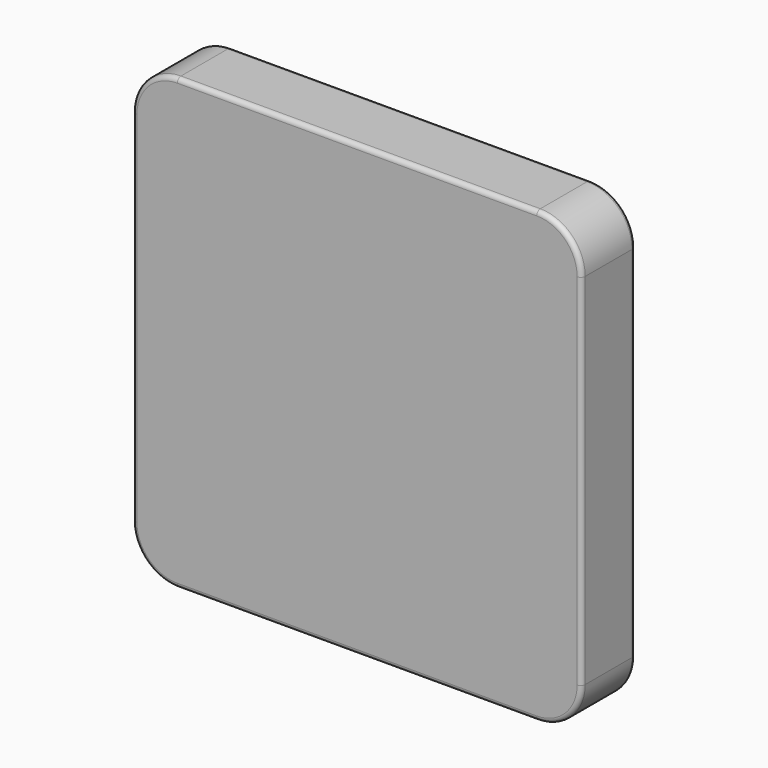
from build123d import *

# Parameters (mm, degrees)
F0_W     = 254
F0_H     = 254
F1_DEPTH = 38.1
F2_R     = 25.4
F3_R     = 25.4
F4_R     = 25.4
F5_R     = 25.4
F6_R     = 2.54
F7_R     = 2.54


with BuildPart() as f1:
    # F0 (on Front) → F1 (new body)
    with BuildSketch(Plane.XZ):
        with Locations((127, 127)):
            Rectangle(F0_W, F0_H)
    extrude(amount=F1_DEPTH)

    # F2
    f2_edges = [f1.edges().sort_by_distance(p)[0] for p in [
        (0, -19.05, 254),
    ]]
    fillet(f2_edges, radius=F2_R)

    # F3
    f3_edges = [f1.edges().sort_by_distance(p)[0] for p in [
        (0, -19.05, 0),
    ]]
    fillet(f3_edges, radius=F3_R)

    # F4
    f4_edges = [f1.edges().sort_by_distance(p)[0] for p in [
        (254, -19.05, 0),
    ]]
    fillet(f4_edges, radius=F4_R)

    # F5
    f5_edges = [f1.edges().sort_by_distance(p)[0] for p in [
        (254, -19.05, 254),
    ]]
    fillet(f5_edges, radius=F5_R)

    # F6
    f6_edges = [f1.edges().sort_by_distance(p)[0] for p in [
        (127, 0, 254),
        (246.560512, 0, 246.560512),
        (254, 0, 127),
        (246.560512, 0, 7.439488),
        (127, 0, 0),
        (7.439488, 0, 7.439488),
        (0, 0, 127),
        (7.439488, 0, 246.560512),
    ]]
    fillet(f6_edges, radius=F6_R)

    # F7
    f7_edges = [f1.edges().sort_by_distance(p)[0] for p in [
        (246.560512, -38.1, 246.560512),
        (254, -38.1, 127),
        (127, -38.1, 254),
        (7.439488, -38.1, 246.560512),
        (0, -38.1, 127),
        (7.439488, -38.1, 7.439488),
        (127, -38.1, 0),
        (246.560512, -38.1, 7.439488),
    ]]
    fillet(f7_edges, radius=F7_R)


solid = f1.part
